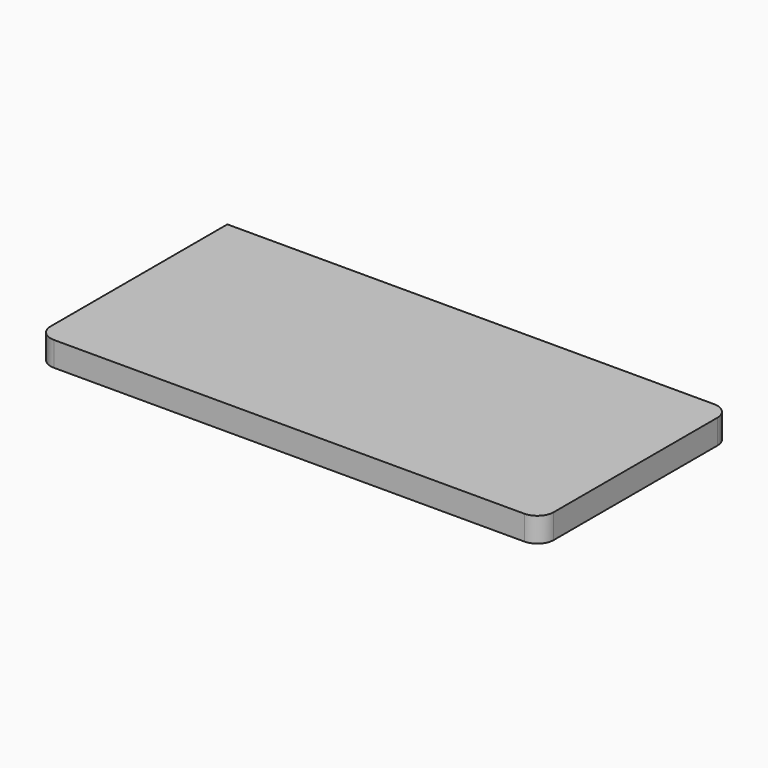
from build123d import *

# Parameters (mm, degrees)
F0_W     = 123
F0_H     = 58
F1_DEPTH = 6
F2_R     = 4


with BuildPart() as f1:
    # F0 (on Top) → F1 (new body)
    with BuildSketch(Plane.XY):
        Rectangle(F0_W, F0_H)
    extrude(amount=F1_DEPTH)

    # F2
    f2_edges = [f1.edges().sort_by_distance(p)[0] for p in [
        (61.5, -29, 3),
        (-61.5, -29, 3),
        (61.5, 29, 3),
    ]]
    fillet(f2_edges, radius=F2_R)


solid = f1.part
